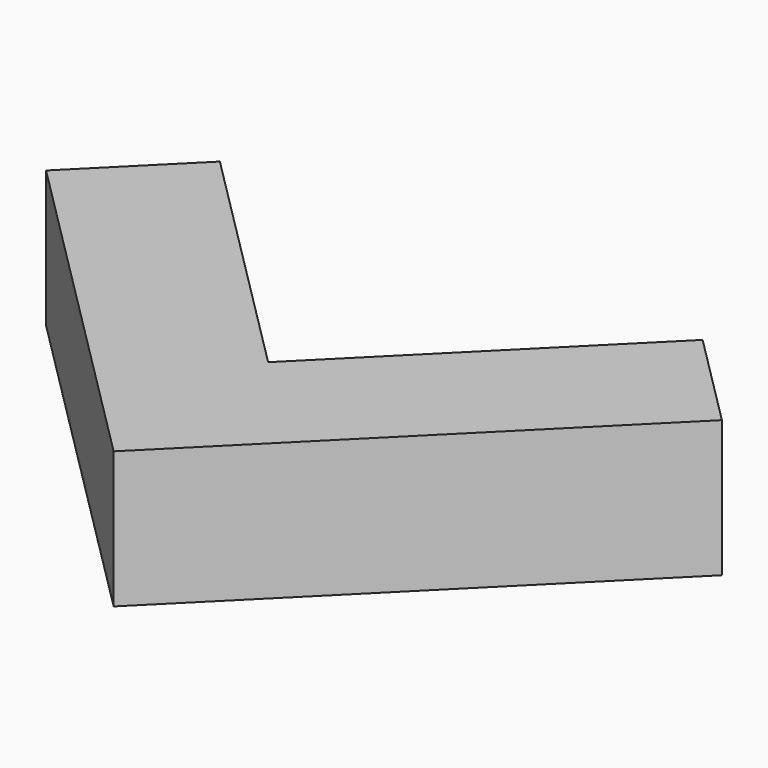
from build123d import *

# Parameters (mm, degrees)
BOX106_W                  = 3.5
BOX106_H                  = 1
BOX106_DEPTH              = 1
BOX103_W                  = 3.5
BOX103_H                  = 1
BOX103_DEPTH              = 1
FUSION025_PLACEMENT_ANGLE = 45


with BuildPart() as cube106:
    # Box106 → Box106 (new body)
    with BuildSketch(Plane.XY):
        with Locations((1.75, 0.5)):
            Rectangle(BOX106_W, BOX106_H)
    extrude(amount=BOX106_DEPTH)


with BuildPart() as obj1:
    # Box103 → Box103 (new body)
    with BuildSketch(Plane(origin=(1, 0, 0), x_dir=(0, 1, 0), z_dir=(0, 0, 1))):
        with Locations((1.75, 0.5)):
            Rectangle(BOX103_W, BOX103_H)
    extrude(amount=BOX103_DEPTH)

    # Fusion025: union Cube106
    add(cube106.part)


with BuildPart() as obj1_1:
    # Fusion025 placement: moved
    add(obj1.part.moved(Location((0, -8, 0))).rotate(Axis((0, -8, 0), (0, 0, 1)), FUSION025_PLACEMENT_ANGLE))


solid = obj1_1.part
